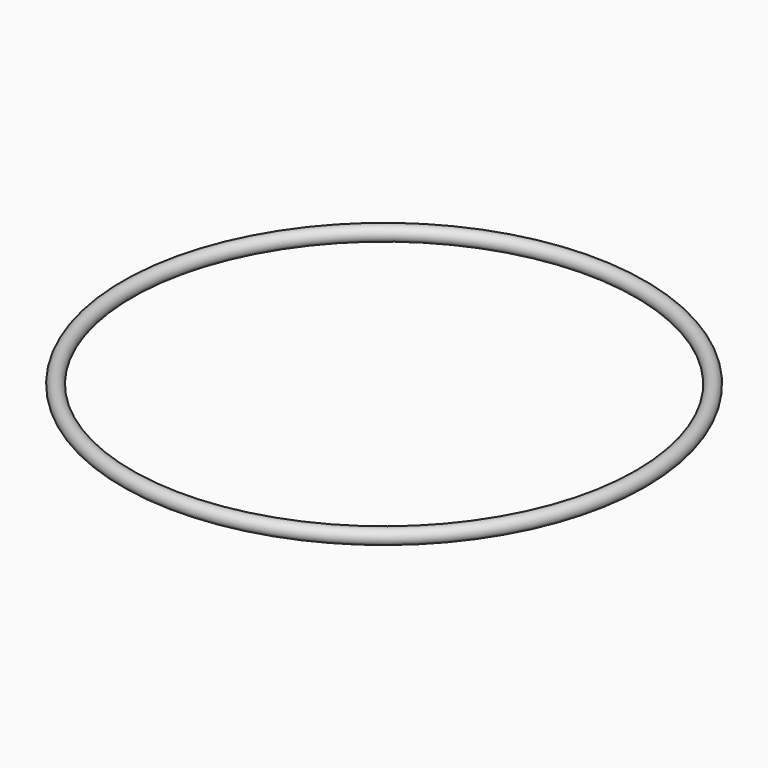
from build123d import *

# Parameters (mm, degrees)
F1_R = 1.481526


with BuildPart() as f2:
    # F2: sweep along a path in F0
    with BuildLine(Plane.XY) as f2_path:
        CenterArc((0, 0), 51.615718, 0, 360)
    # F1 (on Right) → F2 (sweep)
    with BuildSketch(Plane.YZ):
        with Locations((51.608291, 0)):
            Circle(F1_R)
    sweep(path=f2_path.line)


solid = f2.part
